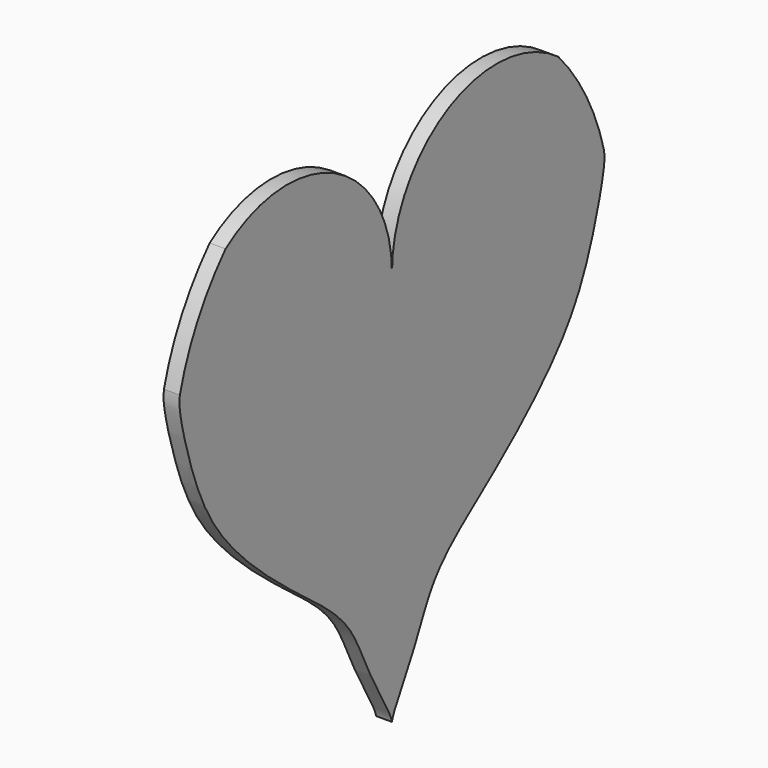
from build123d import *

# Parameters (mm, degrees)
F1_DEPTH = 2.54


with BuildPart() as f1:
    # F0 (on Right) → F1 (new body)
    with BuildSketch(Plane.YZ):
        with BuildLine():
            ThreePointArc((42.3444733024, 0), (38.8179354813, 8.9829666792), (33.220525831, 16.8442111462))
            ThreePointArc((33.220525831, 16.8442111462), (11.4377526166, 18.623444805), (0, 0))
            ThreePointArc((0, 0), (-11.4377526166, 18.623444805), (-33.220525831, 16.8442111462))
            ThreePointArc((-33.220525831, 16.8442111462), (-38.8179354813, 8.9829666792), (-42.3444733024, 0))
            add(Edge.make_bspline(
                [(-42.3444733024, 0), (-42.4248110235, -0.577312965), (-42.541660905, -2.3815972749), (-40.0382960871, -12.0886088714), (-35.0493287336, -23.6714996663), (-20.7502353279, -36.4667488969), (-8.1706135531, -44.9775785452), (-4.9851779449, -54.4765449124), (-0.3107285698, -61.5951899604), (0, -63.1657913327)],
                knots=[0, 0, 0, 0, 0.0601204853, 0.1872794498, 0.3371146037, 0.5186264445, 0.6778503669, 0.8112258381, 0.9369486479, 0.9369486479, 0.9369486479, 0.9369486479], degree=3))
            add(Edge.make_bspline(
                [(42.3444733024, 0), (42.4248110235, -0.577312965), (42.541660905, -2.3815972749), (40.0382960871, -12.0886088714), (35.0493287336, -23.6714996663), (20.7502353279, -36.4667488969), (8.1706135531, -44.9775785452), (4.9851779449, -54.4765449124), (0.3107285698, -61.5951899604), (0, -63.1657913327)],
                knots=[0, 0, 0, 0, 0.0601204853, 0.1872794498, 0.3371146037, 0.5186264445, 0.6778503669, 0.8112258381, 0.9369486479, 0.9369486479, 0.9369486479, 0.9369486479], degree=3))
        make_face()
    extrude(amount=F1_DEPTH)


solid = f1.part
